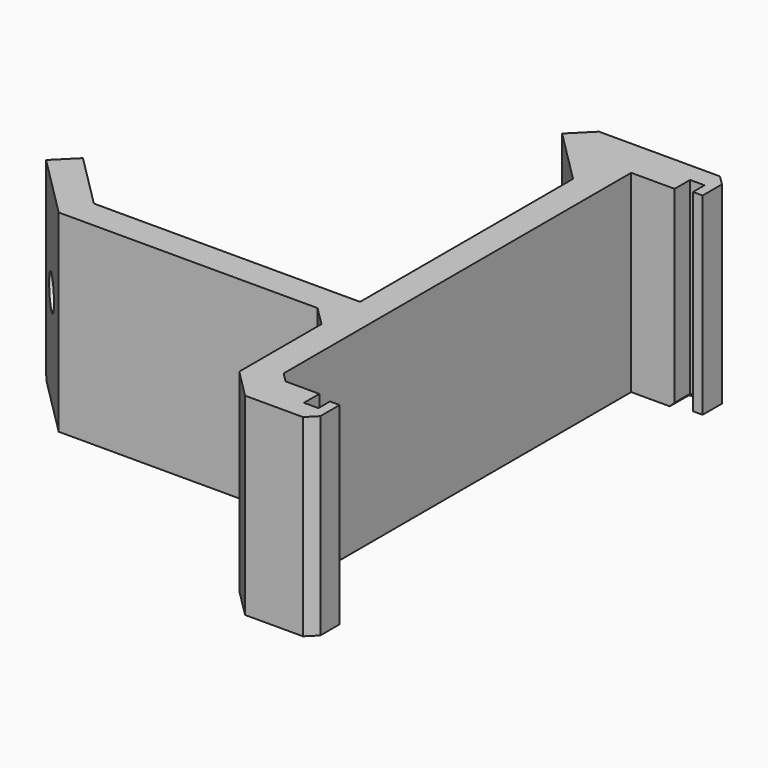
from build123d import *

# Parameters (mm, degrees)
CYLINDER004_R            = 3
CYLINDER004_DEPTH        = 10
PAD010_DEPTH             = 10
SKETCH036_R              = 1.75
POCKET025_DEPTH          = 45.001
CHAMFER023_1_SIZE        = 3
CHAMFER023_2_SIZE        = 2
CHAMFER023_3_SIZE        = 1
CHAMFER024_SIZE          = 0.5
CLONE007_PITCH_ANGLE     = 90
CLONE007_PLACEMENT_ANGLE = 45


with BuildPart() as boardbracketscrewheadcylinder001:
    # Cylinder004 → Cylinder004 (new body)
    with BuildSketch(Plane(origin=(0, 0.5, 24), x_dir=(1, 0, 0), z_dir=(0, 0, 1))):
        Circle(CYLINDER004_R)
    extrude(amount=CYLINDER004_DEPTH)


with BuildPart() as clone007:
    # Sketch035 → Pad010 (new body, symmetric)
    with BuildSketch(Plane.YZ):
        Polygon((4.5, 21), (4.5, 24), (-0.12132, 28.62132), (-5.071068, 33.571068), (-7.545942, 31.096194), (-6.838835, 30.389087), (-5.778175, 31.449747), (-4.717514, 30.389087), (-6.131728, 28.974874), (-2.949747, 25.792893), (-35.476659, -6.734019), (-38.65864, -3.552038), (-40.072853, -4.966252), (-41.133514, -3.905592), (-40.072853, -2.844931), (-40.77996, -2.137825), (-43.254834, -4.612698), (-38.305087, -9.562446), (-36.183766, -11.683766), (-25.12132, -0.62132), (-4.742641, -21), (4.5, -21), (4.5, -18), (-3.5, -18), (-23, 1.5), (-3.5, 21), align=None)
    extrude(amount=PAD010_DEPTH, both=True)

    # Cut002: cut BoardBracketScrewHeadCylinder001
    add(boardbracketscrewheadcylinder001.part, mode=Mode.SUBTRACT)

    # Sketch036 → Pocket025 (cut, through all)
    with BuildSketch(Plane.XY.offset(24)):
        with Locations((0, 0.5)):
            Circle(SKETCH036_R)
    extrude(amount=-POCKET025_DEPTH, mode=Mode.SUBTRACT)

    # Chamfer023 1
    chamfer023_1_edges = [clone007.edges().sort_by_distance(p)[0] for p in [
        (0, -36.183766, -11.683766),
    ]]
    chamfer(chamfer023_1_edges, length=CHAMFER023_1_SIZE)

    # Chamfer023 2
    chamfer023_2_edges = [clone007.edges().sort_by_distance(p)[0] for p in [
        (0, -25.12132, -0.62132),
    ]]
    chamfer(chamfer023_2_edges, length=CHAMFER023_2_SIZE)

    # Chamfer023 3
    chamfer023_3_edges = [clone007.edges().sort_by_distance(p)[0] for p in [
        (0, -35.476659, -6.734019),
        (0, -43.254834, -4.612698),
        (0, -5.071068, 33.571068),
    ]]
    chamfer(chamfer023_3_edges, length=CHAMFER023_3_SIZE)

    # Chamfer024
    chamfer024_edges = [clone007.edges().sort_by_distance(p)[0] for p in [
        (10, -5.424621, 29.681981),
        (10, -39.365747, -4.259145),
        (10, -5.247845, 30.919417),
        (10, -40.603184, -4.435922),
        (10, 4.5, 22.5),
        (10, 0.5, 21),
        (10, -13.25, 11.25),
        (10, -13.25, -8.25),
        (10, 0.5, -18),
        (10, 4.5, -19.5),
    ]]
    chamfer(chamfer024_edges, length=CHAMFER024_SIZE)


with BuildPart() as clone007_1:
    # Clone007 pitch: moved
    add(clone007.part.rotate(Axis((0, 0, 0), (0, 1, 0)), CLONE007_PITCH_ANGLE))


with BuildPart() as clone007_2:
    # Clone007 placement: moved
    add(clone007_1.part.moved(Location((-220.999994, 1.999983, -27.49999))).rotate(Axis((-220.999994, 1.999983, -27.49999), (0, 0, 1)), CLONE007_PLACEMENT_ANGLE))


solid = clone007_2.part
